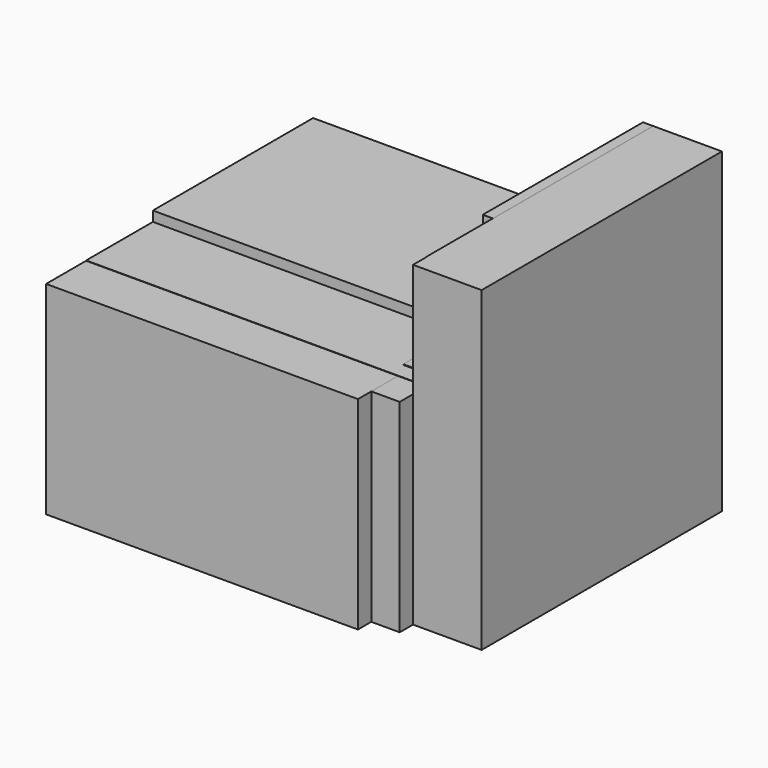
from build123d import *

# Parameters (mm, degrees)
F0_W      = 93.441633
F0_H      = 60.788692
F1_DEPTH  = 100
F0_W_2    = 8.514363
F2_DEPTH  = 95
F3_DEPTH  = 90
F4_DEPTH  = 85
F5_DEPTH  = 80
F6_DEPTH  = 80
F0_W_3    = 3.261623
F0_H_2    = 0.2
F7_DEPTH  = 75
F8_DEPTH  = 75
F9_DEPTH  = 70
F10_DEPTH = 70
F11_DEPTH = 60


with BuildPart() as f1:
    # F0 (on Front) → F1 (new body)
    with BuildSketch(Plane.XZ):
        with Locations((-50.23581, -11.219251)):
            Rectangle(F0_W, F0_H)
    extrude(amount=F1_DEPTH)


with BuildPart() as f2:
    # F0 (on Front) → F2 (new body)
    with BuildSketch(Plane.XZ):
        with Locations((0.742188, -11.219251)):
            Rectangle(F0_W_2, F0_H)
    extrude(amount=F2_DEPTH)


with BuildPart() as f3:
    # F0 (on Front) → F3 (new body)
    with BuildSketch(Plane.XZ):
        Polygon((4.99937, 53.305682), (4.99937, 19.175095), (4.99937, -41.613597), (25.547567, -41.613597), (25.547567, 53.305682), align=None)
    extrude(amount=F3_DEPTH)


with BuildPart() as f4:
    # F0 (on Front) → F4 (new body)
    with BuildSketch(Plane.XZ):
        Polygon((-96.956626, 19.275095), (-96.956626, 19.175095), (-3.514993, 19.175095), (4.99937, 19.175095), (4.99937, 53.305682), (4.89937, 53.305682), (4.89937, 21.603736), (4.89937, 19.275095), (2.794611, 19.275095), (-0.826114, 19.275095), (-5.898638, 19.275095), align=None)
    extrude(amount=F4_DEPTH)


with BuildPart() as f5:
    # F0 (on Front) → F5 (new body)
    with BuildSketch(Plane.XZ):
        Polygon((-5.898638, 19.475095), (-5.898638, 19.275095), (-0.826114, 19.275095), (-0.826114, 19.475095), (-1.276339, 19.475095), (-1.746572, 19.475095), (-5.008195, 19.475095), (-5.598489, 19.475095), align=None)
    extrude(amount=F5_DEPTH)


with BuildPart() as f6:
    # F0 (on Front) → F6 (new body)
    with BuildSketch(Plane.XZ):
        Polygon((2.794611, 19.475095), (2.794611, 19.275095), (4.89937, 19.275095), (4.89937, 21.603736), (4.69937, 21.603736), (4.69937, 21.109089), (4.69937, 20.955889), (4.69937, 19.475095), (3.319059, 19.475095), (3.020844, 19.475095), align=None)
    extrude(amount=F6_DEPTH)


with BuildPart() as f7:
    # F0 (on Front) → F7 (new body)
    with BuildSketch(Plane.XZ):
        with Locations((-3.377383, 19.575095)):
            Rectangle(F0_W_3, F0_H_2)
    extrude(amount=F7_DEPTH)


with BuildPart() as f8:
    # F0 (on Front) → F8 (new body)
    with BuildSketch(Plane.XZ):
        Polygon((3.319059, 19.675095), (3.319059, 19.475095), (4.69937, 19.475095), (4.69937, 20.955889), (4.49937, 20.955889), (4.49937, 19.675095), align=None)
    extrude(amount=F8_DEPTH)


with BuildPart() as f9:
    # F0 (on Front) → F9 (new body)
    with BuildSketch(Plane.XZ):
        Polygon((-5.598489, 19.875095), (-5.598489, 19.475095), (-5.008195, 19.475095), (-5.008195, 19.675095), (-1.746572, 19.675095), (-1.746572, 19.475095), (-1.276339, 19.475095), (-1.276339, 19.875095), align=None)
    extrude(amount=F9_DEPTH)


with BuildPart() as f10:
    # F0 (on Front) → F10 (new body)
    with BuildSketch(Plane.XZ):
        Polygon((3.020844, 19.875095), (3.020844, 19.475095), (3.319059, 19.475095), (3.319059, 19.675095), (4.49937, 19.675095), (4.49937, 20.955889), (4.69937, 20.955889), (4.69937, 21.109089), (4.29937, 21.109089), (4.29937, 19.875095), align=None)
    extrude(amount=F10_DEPTH)


with BuildPart() as f11:
    # F0 (on Front) → F11 (new body)
    with BuildSketch(Plane.XZ):
        Polygon((-96.956626, 22.275095), (-96.956626, 19.275095), (-5.898638, 19.275095), (-5.898638, 19.475095), (-5.598489, 19.475095), (-5.598489, 19.875095), (-1.276339, 19.875095), (-1.276339, 19.475095), (-0.826114, 19.475095), (-0.826114, 19.275095), (2.794611, 19.275095), (2.794611, 19.475095), (3.020844, 19.475095), (3.020844, 19.875095), (4.29937, 19.875095), (4.29937, 21.109089), (4.69937, 21.109089), (4.69937, 21.603736), (4.89937, 21.603736), (4.89937, 53.305682), (1.89937, 53.305682), (1.89937, 22.275095), align=None)
    extrude(amount=F11_DEPTH)


solid = Compound([f1.part, f2.part, f3.part, f4.part, f5.part, f6.part, f7.part, f8.part, f9.part, f10.part, f11.part])
